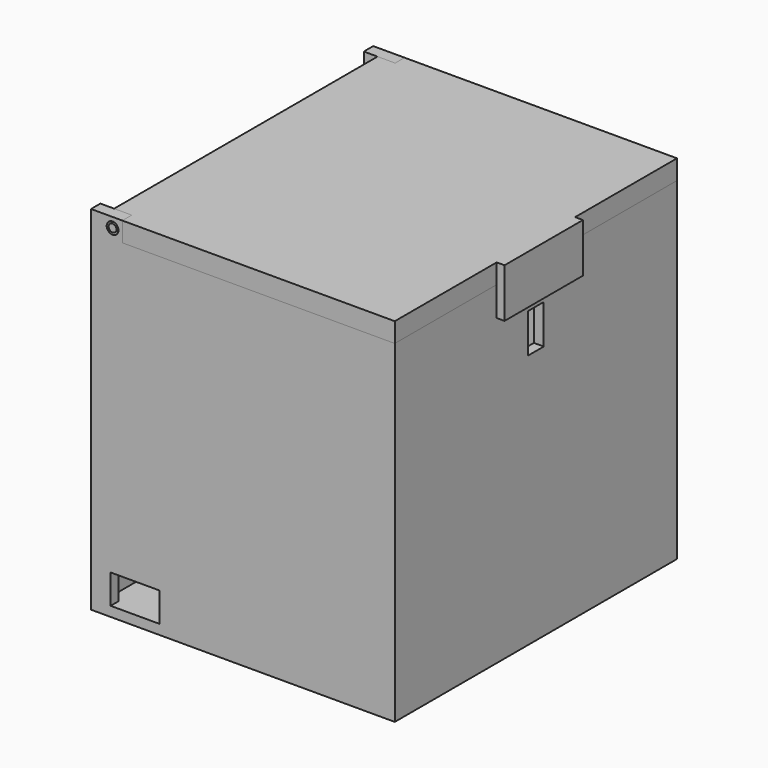
from build123d import *

# Parameters (mm, degrees)
CYLINDER003_R     = 3
CYLINDER003_DEPTH = 148
BOX013_W          = 16
BOX013_H          = 6
BOX013_DEPTH      = 10
CYLINDER002_R     = 3
CYLINDER002_DEPTH = 148
BOX012_W          = 16
BOX012_H          = 6
BOX012_DEPTH      = 10
BOX011_W          = 12
BOX011_H          = 10
BOX011_DEPTH      = 20
BOX010_W          = 25
BOX010_H          = 25
BOX010_DEPTH      = 15
BOX009_W          = 145
BOX009_H          = 170
BOX009_DEPTH      = 200
BOX008_W          = 155
BOX008_H          = 180
BOX008_DEPTH      = 170
CYLINDER005_R     = 2
CYLINDER005_DEPTH = 137
CYLINDER004_R     = 2
CYLINDER004_DEPTH = 139
BOX017_W          = 10
BOX017_H          = 180
BOX017_DEPTH      = 10
BOX015_W          = 10
BOX015_H          = 10
BOX015_DEPTH      = 10
BOX016_W          = 10
BOX016_H          = 10
BOX016_DEPTH      = 10
BOX014_W          = 11
BOX014_H          = 180
BOX014_DEPTH      = 10
CYLINDER001_R     = 3
CYLINDER001_DEPTH = 148
BOX007_W          = 16
BOX007_H          = 6
BOX007_DEPTH      = 10
CYLINDER_R        = 3
CYLINDER_DEPTH    = 148
BOX006_W          = 16
BOX006_H          = 6
BOX006_DEPTH      = 10
BOX005_W          = 12
BOX005_H          = 10
BOX005_DEPTH      = 20
BOX003_W          = 25
BOX003_H          = 25
BOX003_DEPTH      = 15
BOX001_W          = 145
BOX001_H          = 170
BOX001_DEPTH      = 200
BOX_W             = 155
BOX_H             = 180
BOX_DEPTH         = 170
BOX004_W          = 4
BOX004_H          = 50
BOX004_DEPTH      = 25
BOX002_W          = 155
BOX002_H          = 180
BOX002_DEPTH      = 10


with BuildPart() as cylinder003:
    # Cylinder003 → Cylinder003 (new body)
    with BuildSketch(Plane(origin=(11, 139, 175), x_dir=(1, 0, 0), z_dir=(0, -1, 0))):
        Circle(CYLINDER003_R)
    extrude(amount=CYLINDER003_DEPTH)


with BuildPart() as box013:
    # Box013 → Box013 (new body)
    with BuildSketch(Plane.XY.offset(170)):
        with Locations((8, 3)):
            Rectangle(BOX013_W, BOX013_H)
    extrude(amount=BOX013_DEPTH)


with BuildPart() as obj1:
    # Cut010 base: copy of Box013
    add(box013.part)

    # Cut010: cut Cylinder003
    add(cylinder003.part, mode=Mode.SUBTRACT)


with BuildPart() as cylinder002:
    # Cylinder002 → Cylinder002 (new body)
    with BuildSketch(Plane(origin=(11, 191, 175), x_dir=(1, 0, 0), z_dir=(0, -1, 0))):
        Circle(CYLINDER002_R)
    extrude(amount=CYLINDER002_DEPTH)


with BuildPart() as box012:
    # Box012 → Box012 (new body)
    with BuildSketch(Plane(origin=(0, 174, 170), x_dir=(1, 0, 0), z_dir=(0, 0, 1))):
        with Locations((8, 3)):
            Rectangle(BOX012_W, BOX012_H)
    extrude(amount=BOX012_DEPTH)


with BuildPart() as obj2:
    # Cut009 base: copy of Box012
    add(box012.part)

    # Cut009: cut Cylinder002
    add(cylinder002.part, mode=Mode.SUBTRACT)


with BuildPart() as cube006:
    # Box011 → Box011 (new body)
    with BuildSketch(Plane(origin=(146, 85, 130), x_dir=(1, 0, 0), z_dir=(0, 0, 1))):
        with Locations((6, 5)):
            Rectangle(BOX011_W, BOX011_H)
    extrude(amount=BOX011_DEPTH)


with BuildPart() as agujero001:
    # Box010 → Box010 (new body)
    with BuildSketch(Plane(origin=(10, -7, 5), x_dir=(1, 0, 0), z_dir=(0, 0, 1))):
        with Locations((12.5, 12.5)):
            Rectangle(BOX010_W, BOX010_H)
    extrude(amount=BOX010_DEPTH)


with BuildPart() as cube005:
    # Box009 → Box009 (new body)
    with BuildSketch(Plane(origin=(5, 5, 5), x_dir=(1, 0, 0), z_dir=(0, 0, 1))):
        with Locations((72.5, 85)):
            Rectangle(BOX009_W, BOX009_H)
    extrude(amount=BOX009_DEPTH)


with BuildPart() as caja002:
    # Box008 → Box008 (new body)
    with BuildSketch(Plane.XY):
        with Locations((77.5, 90)):
            Rectangle(BOX008_W, BOX008_H)
    extrude(amount=BOX008_DEPTH)

    # Cut006: cut Cube005
    add(cube005.part, mode=Mode.SUBTRACT)

    # Cut007: cut Agujero001
    add(agujero001.part, mode=Mode.SUBTRACT)

    # Cut008: cut Cube006
    add(cube006.part, mode=Mode.SUBTRACT)

    # Fusion003: union obj2
    add(obj2.part)

    # Fusion004: union obj1
    add(obj1.part)


with BuildPart() as cylinder005:
    # Cylinder005 → Cylinder005 (new body)
    with BuildSketch(Plane(origin=(11, 180, 175), x_dir=(1, 0, 0), z_dir=(0, -1, 0))):
        Circle(CYLINDER005_R)
    extrude(amount=CYLINDER005_DEPTH)


with BuildPart() as cylinder004:
    # Cylinder004 → Cylinder004 (new body)
    with BuildSketch(Plane(origin=(11, 139, 175), x_dir=(1, 0, 0), z_dir=(0, -1, 0))):
        Circle(CYLINDER004_R)
    extrude(amount=CYLINDER004_DEPTH)


with BuildPart() as cube010:
    # Box017 → Box017 (new body)
    with BuildSketch(Plane(origin=(7, 0, 170), x_dir=(1, 0, 0), z_dir=(0, 0, 1))):
        with Locations((5, 90)):
            Rectangle(BOX017_W, BOX017_H)
    extrude(amount=BOX017_DEPTH)


with BuildPart() as cube008:
    # Box015 → Box015 (new body)
    with BuildSketch(Plane(origin=(2, 174, 170), x_dir=(1, 0, 0), z_dir=(0, 0, 1))):
        with Locations((5, 5)):
            Rectangle(BOX015_W, BOX015_H)
    extrude(amount=BOX015_DEPTH)


with BuildPart() as cube009:
    # Box016 → Box016 (new body)
    with BuildSketch(Plane(origin=(2, -4, 170), x_dir=(1, 0, 0), z_dir=(0, 0, 1))):
        with Locations((5, 5)):
            Rectangle(BOX016_W, BOX016_H)
    extrude(amount=BOX016_DEPTH)


with BuildPart() as cube007:
    # Box014 → Box014 (new body)
    with BuildSketch(Plane(origin=(-4, 0, 170), x_dir=(1, 0, 0), z_dir=(0, 0, 1))):
        with Locations((5.5, 90)):
            Rectangle(BOX014_W, BOX014_H)
    extrude(amount=BOX014_DEPTH)


with BuildPart() as cylinder001:
    # Cylinder001 → Cylinder001 (new body)
    with BuildSketch(Plane(origin=(7, 139, 175), x_dir=(1, 0, 0), z_dir=(0, -1, 0))):
        Circle(CYLINDER001_R)
    extrude(amount=CYLINDER001_DEPTH)


with BuildPart() as obj3:
    # Box007 → Box007 (new body)
    with BuildSketch(Plane.XY.offset(170)):
        with Locations((8, 3)):
            Rectangle(BOX007_W, BOX007_H)
    extrude(amount=BOX007_DEPTH)

    # Cut004: cut Cylinder001
    add(cylinder001.part, mode=Mode.SUBTRACT)


with BuildPart() as cylinder:
    # Cylinder → Cylinder (new body)
    with BuildSketch(Plane(origin=(7, 192, 175), x_dir=(1, 0, 0), z_dir=(0, -1, 0))):
        Circle(CYLINDER_R)
    extrude(amount=CYLINDER_DEPTH)


with BuildPart() as obj4:
    # Box006 → Box006 (new body)
    with BuildSketch(Plane(origin=(0, 174, 170), x_dir=(1, 0, 0), z_dir=(0, 0, 1))):
        with Locations((8, 3)):
            Rectangle(BOX006_W, BOX006_H)
    extrude(amount=BOX006_DEPTH)

    # Cut003: cut Cylinder
    add(cylinder.part, mode=Mode.SUBTRACT)


with BuildPart() as cube003:
    # Box005 → Box005 (new body)
    with BuildSketch(Plane(origin=(146, 85, 130), x_dir=(1, 0, 0), z_dir=(0, 0, 1))):
        with Locations((6, 5)):
            Rectangle(BOX005_W, BOX005_H)
    extrude(amount=BOX005_DEPTH)


with BuildPart() as agujero:
    # Box003 → Box003 (new body)
    with BuildSketch(Plane(origin=(10, -7, 5), x_dir=(1, 0, 0), z_dir=(0, 0, 1))):
        with Locations((12.5, 12.5)):
            Rectangle(BOX003_W, BOX003_H)
    extrude(amount=BOX003_DEPTH)


with BuildPart() as cube001:
    # Box001 → Box001 (new body)
    with BuildSketch(Plane(origin=(5, 5, 5), x_dir=(1, 0, 0), z_dir=(0, 0, 1))):
        with Locations((72.5, 85)):
            Rectangle(BOX001_W, BOX001_H)
    extrude(amount=BOX001_DEPTH)


with BuildPart() as cuerpo:
    # Box → Box (new body)
    with BuildSketch(Plane.XY):
        with Locations((77.5, 90)):
            Rectangle(BOX_W, BOX_H)
    extrude(amount=BOX_DEPTH)

    # Cut: cut Cube001
    add(cube001.part, mode=Mode.SUBTRACT)

    # Cut001: cut Agujero
    add(agujero.part, mode=Mode.SUBTRACT)

    # Cut002: cut Cube003
    add(cube003.part, mode=Mode.SUBTRACT)

    # Fusion001: union obj4
    add(obj4.part)

    # Fusion002: union obj3
    add(obj3.part)


with BuildPart() as cube002:
    # Box004 → Box004 (new body)
    with BuildSketch(Plane(origin=(155, 65, 155), x_dir=(1, 0, 0), z_dir=(0, 0, 1))):
        with Locations((2, 25)):
            Rectangle(BOX004_W, BOX004_H)
    extrude(amount=BOX004_DEPTH)


with BuildPart() as tapa001:
    # Box002 → Box002 (new body)
    with BuildSketch(Plane.XY.offset(170)):
        with Locations((77.5, 90)):
            Rectangle(BOX002_W, BOX002_H)
    extrude(amount=BOX002_DEPTH)

    # Fusion: union Cube002
    add(cube002.part)

    # Cut005: cut cuerpo
    add(cuerpo.part, mode=Mode.SUBTRACT)

    # Cut011: cut Cube007
    add(cube007.part, mode=Mode.SUBTRACT)

    # Cut012: cut Cube009
    add(cube009.part, mode=Mode.SUBTRACT)

    # Cut013: cut Cube008
    add(cube008.part, mode=Mode.SUBTRACT)

    # Fusion005: union Cube010
    add(cube010.part)

    # Cut014: cut Box012
    add(box012.part, mode=Mode.SUBTRACT)

    # Cut015: cut Box013
    add(box013.part, mode=Mode.SUBTRACT)

    # Fusion006: union Cylinder004
    add(cylinder004.part)

    # Fusion007: union Cylinder005
    add(cylinder005.part)


solid = Compound([caja002.part, tapa001.part])
